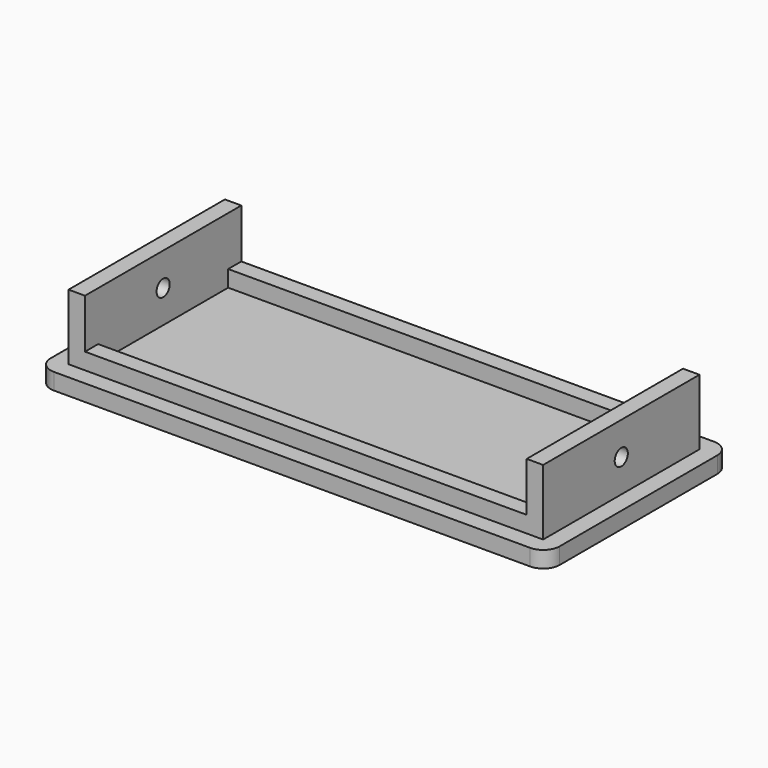
from build123d import *

# Parameters (mm, degrees)
SKETCH_W          = 62
SKETCH_H          = 28
PAD_DEPTH         = 2
SKETCH001_W       = 57.8
SKETCH001_H       = 23.8
SKETCH001_W_2     = 53.8
SKETCH001_H_2     = 19.8
PAD001_DEPTH      = 4
SKETCH002_W       = 2
SKETCH002_H       = 23.8
PAD002_DEPTH      = 10
SKETCH003_R       = 1
POCKET_DEPTH      = 31.001
POCKET_DEPTH_BACK = -31.001
FILLET_R          = 2


with BuildPart() as part:
    # Sketch → Pad (new body)
    with BuildSketch(Plane.XY):
        Rectangle(SKETCH_W, SKETCH_H)
    extrude(amount=PAD_DEPTH)

    # Sketch001 → Pad001 (join)
    with BuildSketch(Plane.XY):
        Rectangle(SKETCH001_W, SKETCH001_H)
        Rectangle(SKETCH001_W_2, SKETCH001_H_2, mode=Mode.SUBTRACT)
    extrude(amount=PAD001_DEPTH)

    # Sketch002 → Pad002 (join)
    with BuildSketch(Plane.XY):
        with Locations((-27.9, 0)):
            Rectangle(SKETCH002_W, SKETCH002_H)
        with Locations((27.9, 0)):
            Rectangle(SKETCH002_W, SKETCH002_H)
    extrude(amount=PAD002_DEPTH)

    # Sketch003 → Pocket (cut, two sides)
    with BuildSketch(Plane.YZ) as pocket_sk:
        with Locations((0, 6)):
            Circle(SKETCH003_R)
    extrude(amount=-POCKET_DEPTH, mode=Mode.SUBTRACT)
    extrude(pocket_sk.sketch, amount=-POCKET_DEPTH_BACK, mode=Mode.SUBTRACT)

    # Fillet
    fillet_edges = [part.edges().sort_by_distance(p)[0] for p in [
        (31, 14, 1),
        (31, -14, 1),
        (-31, 14, 1),
        (-31, -14, 1),
    ]]
    fillet(fillet_edges, radius=FILLET_R)


solid = part.part
